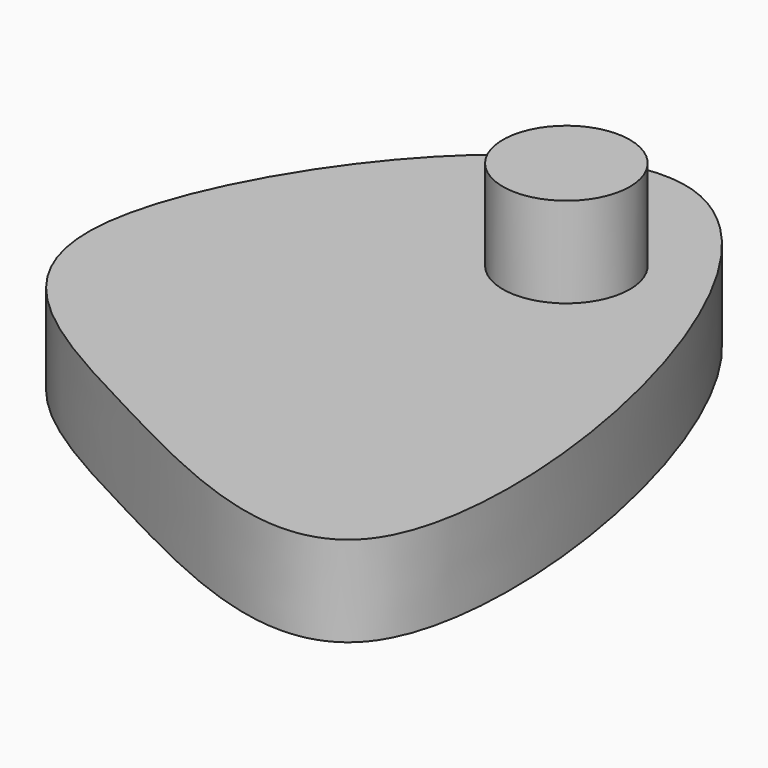
from build123d import *

# Parameters (mm, degrees)
F1_DEPTH = 25
F2_R     = 17.5739762064
F3_DEPTH = 25


with BuildPart() as f1:
    # F0 (on Top) → F1 (new body)
    with BuildSketch(Plane.XY):
        with BuildLine():
            add(Edge.make_bspline(
                [(-22.6495917886, -28.783949092), (-54.8085813598, -11.9613764658), (-116.9018974162, 20.2594691575), (30.947435711, 216.0895216593), (96.9228956677, -91.6105857223), (8.9544779407, -45.3162396085), (-22.6495917886, -28.783949092)],
                knots=[0, 0, 0, 0, 0.215202308, 0.4799113585, 0.7885111181, 1, 1, 1, 1], degree=3))
        make_face()
    extrude(amount=F1_DEPTH)

    # F2 (on face) → F3 (join)
    with BuildSketch(Plane.XY.offset(25)):
        with Locations((10.531373322, 82.2446271777)):
            Circle(F2_R)
    extrude(amount=F3_DEPTH)


solid = f1.part
